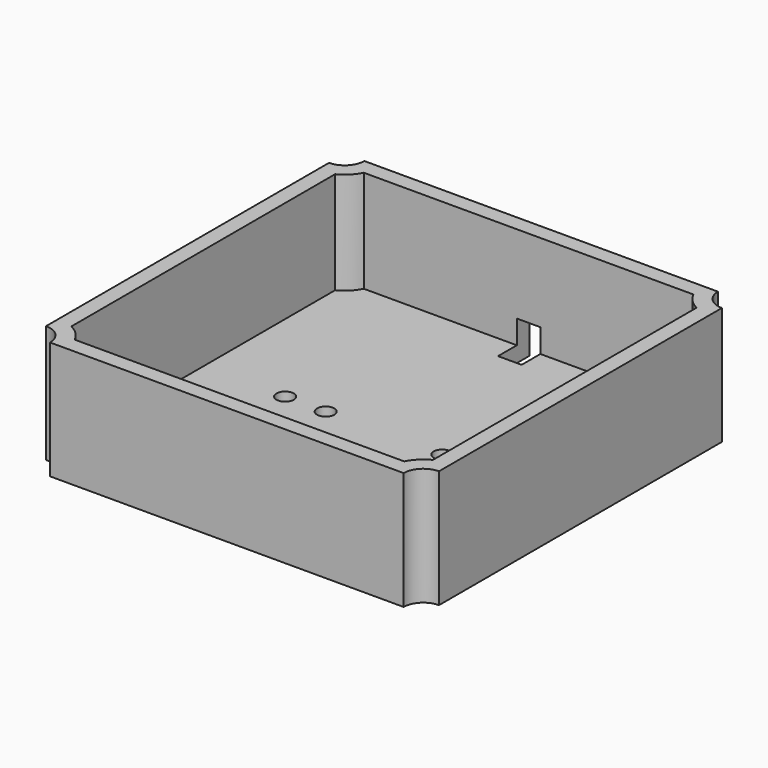
from build123d import *

# Parameters (mm, degrees)
F0_R     = 1.1
F1_DEPTH = 5
F2_DEPTH = 10
F3_T     = -2
F4_W     = 3
F4_H     = 10
F5_DEPTH = 5


with BuildPart() as f1:
    # F0 (on Top) → F1 (new body)
    with BuildSketch(Plane.XY):
        with BuildLine():
            Line((-22.5, -25), (22.5, -25))
            ThreePointArc((22.5, -25), (23.232233047, -23.232233047), (25, -22.5))
            Line((25, -22.5), (25, 22.5))
            ThreePointArc((25, 22.5), (23.232233047, 23.232233047), (22.5, 25))
            Line((22.5, 25), (-22.5, 25))
            ThreePointArc((-22.5, 25), (-23.232233047, 23.232233047), (-25, 22.5))
            Line((-25, 22.5), (-25, -22.5))
            ThreePointArc((-25, -22.5), (-23.232233047, -23.232233047), (-22.5, -25))
        make_face()
        with BuildLine():
            ThreePointArc((-12.345503876, -1.0747146448), (-13.4367221651, 0.6899471949), (-11.48, 0))
            ThreePointArc((-11.48, 0), (-11.7232778349, -0.6899471949), (-12.345503876, -1.0747146448))
        make_face(mode=Mode.SUBTRACT)
        with Locations((-7.42, 0)):
            Circle(F0_R, mode=Mode.SUBTRACT)
        with Locations((7.42, 0)):
            Circle(F0_R, mode=Mode.SUBTRACT)
        with Locations((12.58, 0)):
            Circle(F0_R, mode=Mode.SUBTRACT)
    extrude(amount=F1_DEPTH)

    # F2 (add): a face of the model
    f2_faces = [f1.faces().sort_by_distance(p)[0] for p in [
        (0, 0, 5),
    ]]
    extrude(f2_faces, amount=F2_DEPTH)

    # F3
    f3_openings = [f1.faces().sort_by_distance(p)[0] for p in [
        (-13.68, 0, 2.5),
        (-13.68, 0, 10),
        (0, 0, 15),
        (11.48, 0, 2.5),
        (11.48, 0, 10),
        (6.32, 0, 2.5),
        (6.32, 0, 10),
        (-8.52, 0, 2.5),
        (-8.52, 0, 10),
    ]]
    offset(amount=F3_T, openings=f3_openings)

    # F4 (on Top) → F5 (cut)
    with BuildSketch(Plane.XY):
        with Locations((0, 25.013813749)):
            Rectangle(F4_W, F4_H)
    extrude(amount=F5_DEPTH, mode=Mode.SUBTRACT)


solid = f1.part
